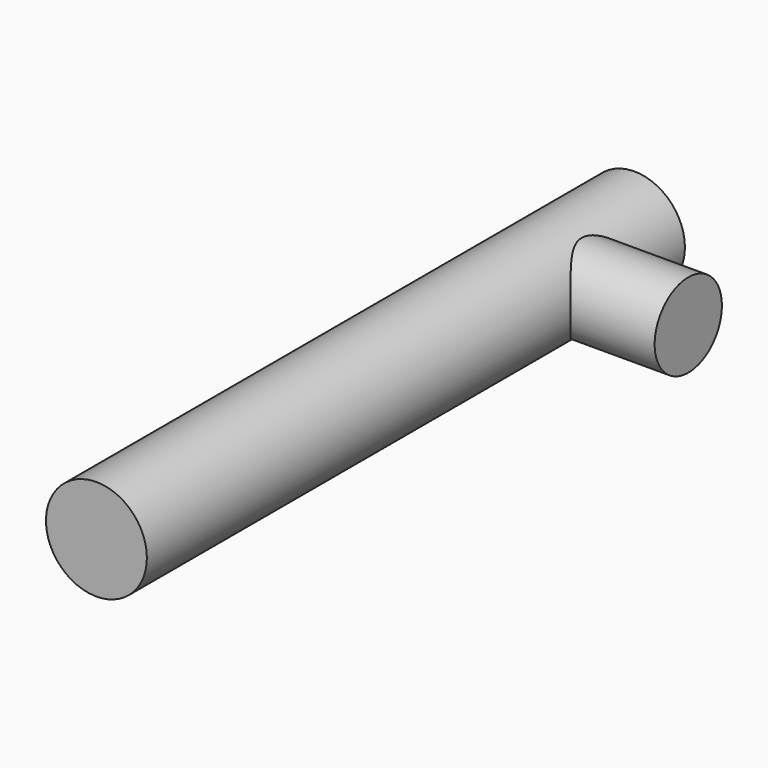
from build123d import *

# Parameters (mm, degrees)
F0_R     = 15
F1_DEPTH = 200
F2_R     = 12.5
F3_DEPTH = 40


with BuildPart() as f1:
    # F0 (on Front) → F1 (new body)
    with BuildSketch(Plane.XZ):
        Circle(F0_R)
    extrude(amount=F1_DEPTH)

    # F2 (on Right) → F3 (join)
    with BuildSketch(Plane.YZ):
        with Locations((-30, 0)):
            Circle(F2_R)
    extrude(amount=F3_DEPTH)


solid = f1.part
